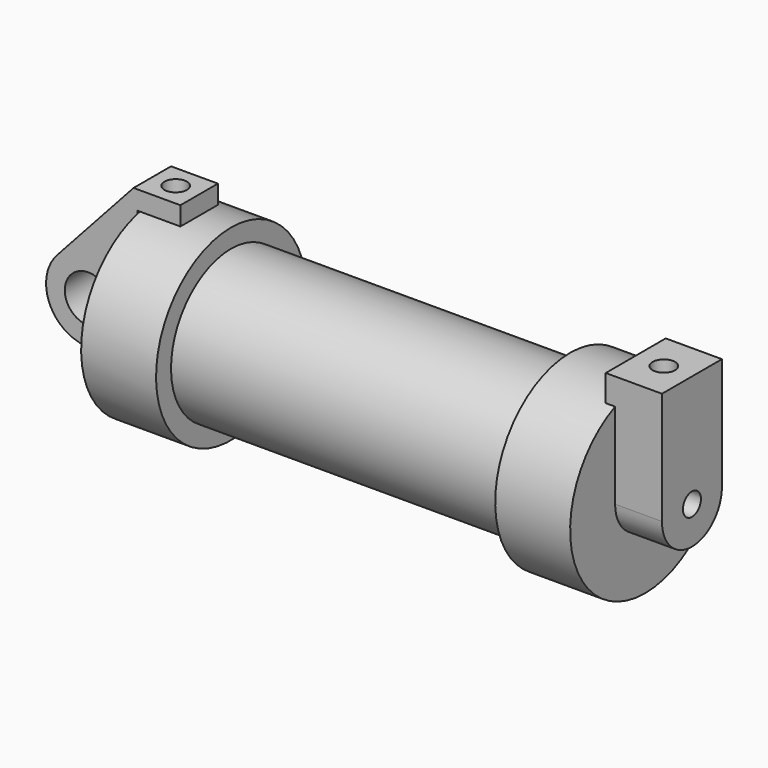
from build123d import *

# Parameters (mm, degrees)
F0_W          = 5.842
F0_H          = 12.7
F0_R          = 3.175
F2_DEPTH      = 3.175
F3_R          = 1.524
F4_DEPTH      = 6.35
F4_DEPTH_BACK = 1.27
F5_DEPTH      = 56.134
F6_R          = 1.524
F8_DEPTH      = 17.78
F7_R          = 1.524
F9_DEPTH      = 10.414


with BuildPart() as f1:
    # F0 (on Front) → F1 (revolve)
    with BuildSketch(Plane.XZ):
        Polygon((5.842, 12.7), (5.842, 0), (66.294, 0), (66.294, 12.7), (56.134, 12.7), (56.134, 10.16), (10.16, 10.16), (10.16, 12.7), align=None)
        with Locations((2.921, 6.35)):
            Rectangle(F0_W, F0_H)
    revolve(axis=Axis((33.147, 0, 0), (-1, 0, 0)))

    # F3 (on face) → F4 (join, two sides)
    with BuildSketch(Plane.YZ.offset(66.294)) as f4_sk:
        with BuildLine():
            ThreePointArc((-5.08, 11.6397422652), (0, 12.7), (5.08, 11.6397422652))
            Line((5.08, 11.6397422652), (5.08, 15.24))
            Line((5.08, 15.24), (-5.08, 15.24))
            Line((-5.08, 15.24), (-5.08, 11.6397422652))
        make_face()
        with BuildLine():
            ThreePointArc((-5.08, 0), (0, 5.08), (5.08, 0))
            Line((5.08, 0), (5.08, 11.6397422652))
            ThreePointArc((5.08, 11.6397422652), (0, 12.7), (-5.08, 11.6397422652))
            Line((-5.08, 11.6397422652), (-5.08, 0))
        make_face()
        with BuildLine():
            ThreePointArc((-5.08, 0), (0, -5.08), (5.08, 0))
            ThreePointArc((5.08, 0), (0, 5.08), (-5.08, 0))
        make_face()
        Circle(F3_R, mode=Mode.SUBTRACT)
    extrude(amount=F4_DEPTH)
    extrude(f4_sk.sketch, amount=-F4_DEPTH_BACK)

    # F5 (cut, through all): a face of the model
    f5_faces = [f1.faces().sort_by_distance(p)[0] for p in [
        (66.294, 0, 0),
    ]]
    extrude(f5_faces, amount=-F5_DEPTH, mode=Mode.SUBTRACT)

    # F7 (on face) → F9 (cut)
    with BuildSketch(Plane.XY.offset(15.24)):
        with Locations((68.834, 0)):
            Circle(F7_R)
    extrude(amount=-F9_DEPTH, mode=Mode.SUBTRACT)


with BuildPart() as f2:
    # F0 (on Front) → F2 (new body, symmetric)
    with BuildSketch(Plane.XZ):
        with BuildLine():
            Line((5.842, 0), (0, 0))
            Line((0, 0), (-0.9398, 0))
            ThreePointArc((-0.9398, 0), (-3.1957909266, -4.5493385486), (-8.1826630726, -5.5069827884))
            Line((-8.1826630726, -5.5069827884), (5.842, -9.398))
            Line((5.842, -9.398), (5.842, 0))
        make_face()
        with BuildLine():
            Line((-0.9398, 0), (0, 0))
            Line((0, 0), (0, 12.7))
            Line((0, 12.7), (5.842, 12.7))
            Line((5.842, 12.7), (5.842, 15.24))
            Line((5.842, 15.24), (-0.508, 15.24))
            Line((-0.508, 15.24), (-10.8806298187, 3.8475430269))
            ThreePointArc((-10.8806298187, 3.8475430269), (-4.5919612295, 5.3297205562), (-0.9398, 0))
        make_face()
        with BuildLine():
            ThreePointArc((-8.1826630726, -5.5069827884), (-3.1957909266, -4.5493385486), (-0.9398, 0))
            ThreePointArc((-0.9398, 0), (-4.5919612295, 5.3297205562), (-10.8806298187, 3.8475430269))
            ThreePointArc((-10.8806298187, 3.8475430269), (-12.1459778134, -1.5837270034), (-8.1826630726, -5.5069827884))
        make_face()
        with Locations((-6.6548, 0)):
            Circle(F0_R, mode=Mode.SUBTRACT)
    extrude(amount=F2_DEPTH, both=True)

    # F6 (on face) → F8 (cut)
    with BuildSketch(Plane.XY.offset(15.24)):
        with Locations((2.667, 0)):
            Circle(F6_R)
    extrude(amount=-F8_DEPTH, mode=Mode.SUBTRACT)


solid = Compound([f1.part, f2.part])
